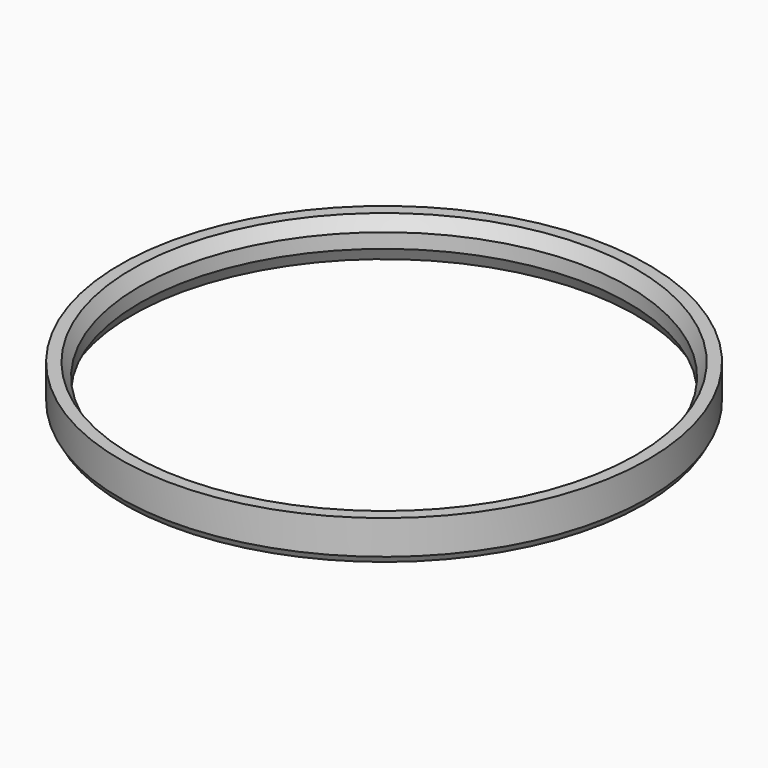
from build123d import *

# Parameters (mm, degrees)
F0_R     = 16.25
F1_DEPTH = 2.5
F2_R     = 15.05
F3_DEPTH = 2.501
F4_SIZE2 = 0.4618802154
F4_SIZE  = 0.8
F5_SIZE2 = 0.2309401077
F5_SIZE  = 0.4


with BuildPart() as f1:
    # F0 (on Top) → F1 (new body)
    with BuildSketch(Plane.XY):
        Circle(F0_R)
    extrude(amount=F1_DEPTH)

    # F2 (on face) → F3 (cut, through all)
    with BuildSketch(Plane.XY.offset(2.5)):
        Circle(F2_R)
    extrude(amount=-F3_DEPTH, mode=Mode.SUBTRACT)

    # F4
    f4_edges = [f1.edges().sort_by_distance(p)[0] for p in [
        (-15.05, 0, 2.5),
        (-15.05, 0, 0),
    ]]
    f4_side = f1.faces().sort_by_distance((-15.05, 0, 1.25))[0]
    chamfer(f4_edges, length=F4_SIZE, length2=F4_SIZE2, reference=f4_side)

    # F5
    f5_edges = [f1.edges().sort_by_distance(p)[0] for p in [
        (-16.25, 0, 0),
    ]]
    f5_side = f1.faces().sort_by_distance((-16.25, 0, 1.25))[0]
    chamfer(f5_edges, length=F5_SIZE, length2=F5_SIZE2, reference=f5_side)


solid = f1.part
